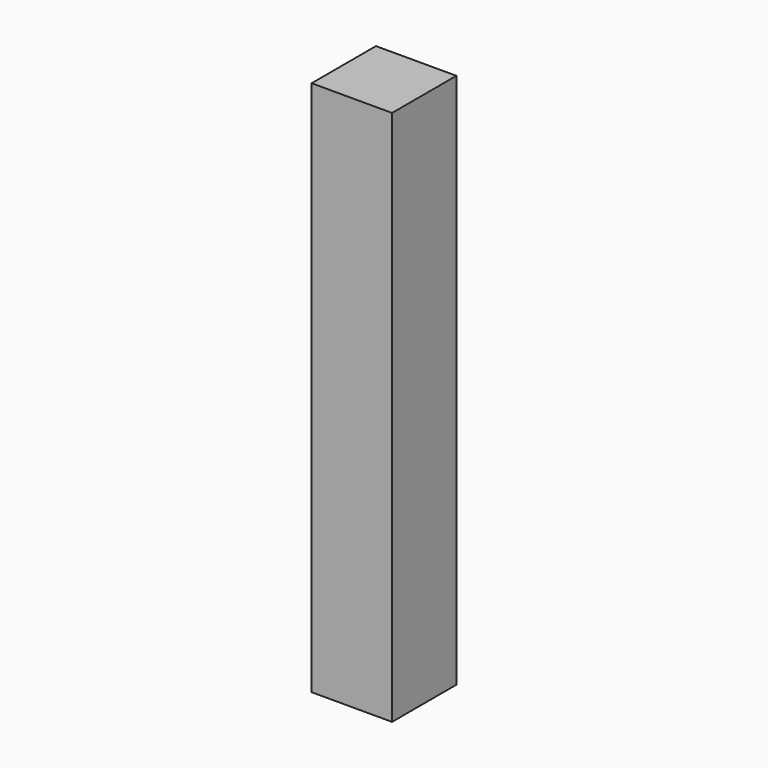
from build123d import *

# Parameters (mm, degrees)
SKETCH_W  = 45
SKETCH_H  = 45
PAD_DEPTH = 300


with BuildPart() as part:
    # Sketch → Pad (new body)
    with BuildSketch(Plane.XY):
        with Locations((-22.5, 22.5)):
            Rectangle(SKETCH_W, SKETCH_H)
    extrude(amount=PAD_DEPTH)


solid = part.part
